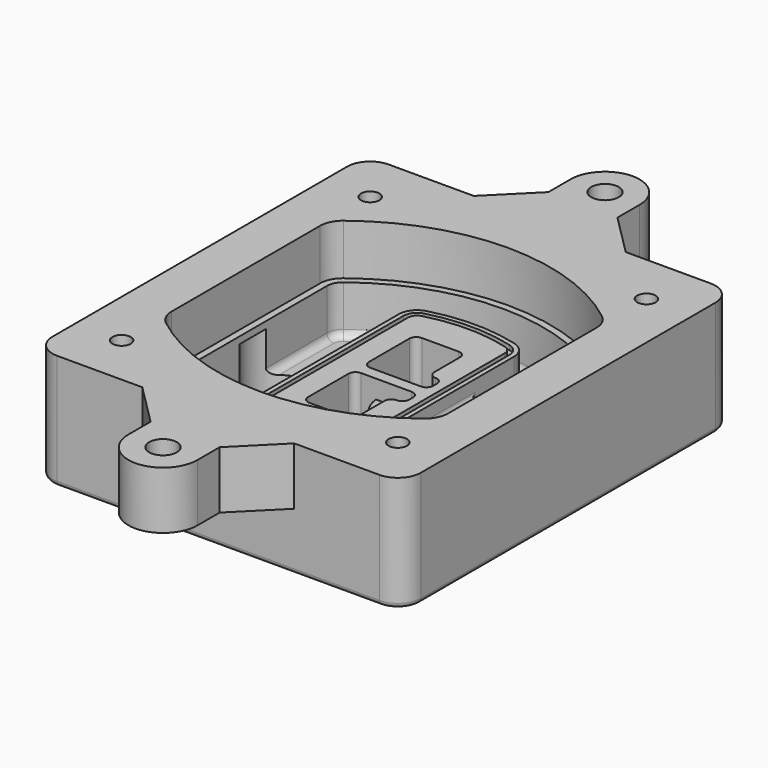
from build123d import *

# Parameters (mm, degrees)
F0_R      = 4
F1_DEPTH  = 25
F2_DEPTH  = 3
F3_DEPTH  = 18
F5_DEPTH  = 21
F6_DEPTH  = 2
F8_DEPTH  = 20
F9_DEPTH  = 16
F10_DEPTH = 25
F7_R      = 6
F7_R_2    = 4
F11_DEPTH = 6
F13_DEPTH = 9
F14_R     = 3
F15_R     = 2
F16_R     = 4
F16_R_2   = 6
F17_DEPTH = 25


with BuildPart() as f1:
    # F0 (on Top) → F1 (new body)
    with BuildSketch(Plane.XY):
        with BuildLine():
            ThreePointArc((-80, -80), (-77.0710678119, -87.0710678119), (-70, -90))
            Line((-70, -90), (70, -90))
            ThreePointArc((70, -90), (77.0710678119, -87.0710678119), (80, -80))
            Line((80, -80), (80, 80))
            ThreePointArc((80, 80), (77.0710678119, 87.0710678119), (70, 90))
            Line((70, 90), (-70, 90))
            ThreePointArc((-70, 90), (-77.0710678119, 87.0710678119), (-80, 80))
            Line((-80, 80), (-80, -80))
        make_face()
        with Locations((-60, -67.5)):
            Circle(F0_R, mode=Mode.SUBTRACT)
        with Locations((60, -67.5)):
            Circle(F0_R, mode=Mode.SUBTRACT)
        with Locations((-60, 67.5)):
            Circle(F0_R, mode=Mode.SUBTRACT)
        with BuildLine():
            ThreePointArc((-64, 40.2934422872), (-62.5820384798, 46.4328484224), (-58.6153846154, 51.3286200352))
            ThreePointArc((-58.6153846154, 51.3286200352), (0, 71.5), (58.6153846154, 51.3286200352))
            ThreePointArc((58.6153846154, 51.3286200352), (62.5820384798, 46.4328484224), (64, 40.2934422872))
            Line((64, 40.2934422872), (64, -40.2934422872))
            ThreePointArc((64, -40.2934422872), (62.5820384798, -46.4328484224), (58.6153846154, -51.3286200352))
            ThreePointArc((58.6153846154, -51.3286200352), (0, -71.5), (-58.6153846154, -51.3286200352))
            ThreePointArc((-58.6153846154, -51.3286200352), (-62.5820384798, -46.4328484224), (-64, -40.2934422872))
            Line((-64, -40.2934422872), (-64, 40.2934422872))
        make_face(mode=Mode.SUBTRACT)
        with Locations((60, 67.5)):
            Circle(F0_R, mode=Mode.SUBTRACT)
        with BuildLine():
            ThreePointArc((58.6153846154, 51.3286200352), (0, 71.5), (-58.6153846154, 51.3286200352))
            ThreePointArc((-58.6153846154, 51.3286200352), (-62.5820384798, 46.4328484224), (-64, 40.2934422872))
            Line((-64, 40.2934422872), (-64, -40.2934422872))
            ThreePointArc((-64, -40.2934422872), (-62.5820384798, -46.4328484224), (-58.6153846154, -51.3286200352))
            ThreePointArc((-58.6153846154, -51.3286200352), (0, -71.5), (58.6153846154, -51.3286200352))
            ThreePointArc((58.6153846154, -51.3286200352), (62.5820384798, -46.4328484224), (64, -40.2934422872))
            Line((64, -40.2934422872), (64, 40.2934422872))
            ThreePointArc((64, 40.2934422872), (62.5820384798, 46.4328484224), (58.6153846154, 51.3286200352))
        make_face()
        with BuildLine():
            Line((-60, -40.2934422872), (-60, 40.2934422872))
            ThreePointArc((-60, 40.2934422872), (-58.9871703427, 44.6787323838), (-56.1538461538, 48.1757121072))
            ThreePointArc((-56.1538461538, 48.1757121072), (0, 67.5), (56.1538461538, 48.1757121072))
            ThreePointArc((56.1538461538, 48.1757121072), (58.9871703427, 44.6787323838), (60, 40.2934422872))
            Line((60, 40.2934422872), (60, -40.2934422872))
            ThreePointArc((60, -40.2934422872), (58.9871703427, -44.6787323838), (56.1538461538, -48.1757121072))
            ThreePointArc((56.1538461538, -48.1757121072), (0, -67.5), (-56.1538461538, -48.1757121072))
            ThreePointArc((-56.1538461538, -48.1757121072), (-58.9871703427, -44.6787323838), (-60, -40.2934422872))
        make_face(mode=Mode.SUBTRACT)
        with BuildLine():
            ThreePointArc((-56.1538461538, 48.1757121072), (-58.9871703427, 44.6787323838), (-60, 40.2934422872))
            Line((-60, 40.2934422872), (-60, -40.2934422872))
            ThreePointArc((-60, -40.2934422872), (-58.9871703427, -44.6787323838), (-56.1538461538, -48.1757121072))
            ThreePointArc((-56.1538461538, -48.1757121072), (0, -67.5), (56.1538461538, -48.1757121072))
            ThreePointArc((56.1538461538, -48.1757121072), (58.9871703427, -44.6787323838), (60, -40.2934422872))
            Line((60, -40.2934422872), (60, 40.2934422872))
            ThreePointArc((60, 40.2934422872), (58.9871703427, 44.6787323838), (56.1538461538, 48.1757121072))
            ThreePointArc((56.1538461538, 48.1757121072), (0, 67.5), (-56.1538461538, 48.1757121072))
        make_face()
        with BuildLine():
            ThreePointArc((54.3076923077, 45.8110311612), (56.2910192399, 43.3631453548), (57, 40.2934422872))
            Line((57, 40.2934422872), (57, -40.2934422872))
            ThreePointArc((57, -40.2934422872), (56.2910192399, -43.3631453548), (54.3076923077, -45.8110311612))
            ThreePointArc((54.3076923077, -45.8110311612), (0, -64.5), (-54.3076923077, -45.8110311612))
            ThreePointArc((-54.3076923077, -45.8110311612), (-56.2910192399, -43.3631453548), (-57, -40.2934422872))
            Line((-57, -40.2934422872), (-57, 40.2934422872))
            ThreePointArc((-57, 40.2934422872), (-56.2910192399, 43.3631453548), (-54.3076923077, 45.8110311612))
            ThreePointArc((-54.3076923077, 45.8110311612), (0, 64.5), (54.3076923077, 45.8110311612))
        make_face(mode=Mode.SUBTRACT)
        with BuildLine():
            Line((57, -40.2934422872), (57, 40.2934422872))
            ThreePointArc((57, 40.2934422872), (56.2910192399, 43.3631453548), (54.3076923077, 45.8110311612))
            ThreePointArc((54.3076923077, 45.8110311612), (0, 64.5), (-54.3076923077, 45.8110311612))
            ThreePointArc((-54.3076923077, 45.8110311612), (-56.2910192399, 43.3631453548), (-57, 40.2934422872))
            Line((-57, 40.2934422872), (-57, -40.2934422872))
            ThreePointArc((-57, -40.2934422872), (-56.2910192399, -43.3631453548), (-54.3076923077, -45.8110311612))
            ThreePointArc((-54.3076923077, -45.8110311612), (0, -64.5), (54.3076923077, -45.8110311612))
            ThreePointArc((54.3076923077, -45.8110311612), (56.2910192399, -43.3631453548), (57, -40.2934422872))
        make_face()
    extrude(amount=-F1_DEPTH)

    # F0 (on Top) → F2 (join)
    with BuildSketch(Plane.XY):
        with BuildLine():
            ThreePointArc((-56.1538461538, 48.1757121072), (-58.9871703427, 44.6787323838), (-60, 40.2934422872))
            Line((-60, 40.2934422872), (-60, -40.2934422872))
            ThreePointArc((-60, -40.2934422872), (-58.9871703427, -44.6787323838), (-56.1538461538, -48.1757121072))
            ThreePointArc((-56.1538461538, -48.1757121072), (0, -67.5), (56.1538461538, -48.1757121072))
            ThreePointArc((56.1538461538, -48.1757121072), (58.9871703427, -44.6787323838), (60, -40.2934422872))
            Line((60, -40.2934422872), (60, 40.2934422872))
            ThreePointArc((60, 40.2934422872), (58.9871703427, 44.6787323838), (56.1538461538, 48.1757121072))
            ThreePointArc((56.1538461538, 48.1757121072), (0, 67.5), (-56.1538461538, 48.1757121072))
        make_face()
        with BuildLine():
            ThreePointArc((54.3076923077, 45.8110311612), (56.2910192399, 43.3631453548), (57, 40.2934422872))
            Line((57, 40.2934422872), (57, -40.2934422872))
            ThreePointArc((57, -40.2934422872), (56.2910192399, -43.3631453548), (54.3076923077, -45.8110311612))
            ThreePointArc((54.3076923077, -45.8110311612), (0, -64.5), (-54.3076923077, -45.8110311612))
            ThreePointArc((-54.3076923077, -45.8110311612), (-56.2910192399, -43.3631453548), (-57, -40.2934422872))
            Line((-57, -40.2934422872), (-57, 40.2934422872))
            ThreePointArc((-57, 40.2934422872), (-56.2910192399, 43.3631453548), (-54.3076923077, 45.8110311612))
            ThreePointArc((-54.3076923077, 45.8110311612), (0, 64.5), (54.3076923077, 45.8110311612))
        make_face(mode=Mode.SUBTRACT)
    extrude(amount=F2_DEPTH)

    # F0 (on Top) → F3 (cut)
    with BuildSketch(Plane.XY):
        with BuildLine():
            Line((57, -40.2934422872), (57, 40.2934422872))
            ThreePointArc((57, 40.2934422872), (56.2910192399, 43.3631453548), (54.3076923077, 45.8110311612))
            ThreePointArc((54.3076923077, 45.8110311612), (0, 64.5), (-54.3076923077, 45.8110311612))
            ThreePointArc((-54.3076923077, 45.8110311612), (-56.2910192399, 43.3631453548), (-57, 40.2934422872))
            Line((-57, 40.2934422872), (-57, -40.2934422872))
            ThreePointArc((-57, -40.2934422872), (-56.2910192399, -43.3631453548), (-54.3076923077, -45.8110311612))
            ThreePointArc((-54.3076923077, -45.8110311612), (0, -64.5), (54.3076923077, -45.8110311612))
            ThreePointArc((54.3076923077, -45.8110311612), (56.2910192399, -43.3631453548), (57, -40.2934422872))
        make_face()
    extrude(amount=-F3_DEPTH, mode=Mode.SUBTRACT)

    # F4 (on face) → F5 (join, through all)
    with BuildSketch(Plane.XY.offset(3)):
        with BuildLine():
            ThreePointArc((-25, -39.2465276821), (-23.3511545998, -44.1109737193), (-19.0842911877, -46.9702398883))
            ThreePointArc((-19.0842911877, -46.9702398883), (0, -49.5), (19.0842911877, -46.9702398883))
            ThreePointArc((19.0842911877, -46.9702398883), (23.3511545998, -44.1109737193), (25, -39.2465276821))
            Line((25, -39.2465276821), (25, 39.2465276821))
            ThreePointArc((25, 39.2465276821), (23.3511545998, 44.1109737193), (19.0842911877, 46.9702398883))
            ThreePointArc((19.0842911877, 46.9702398883), (0, 49.5), (-19.0842911877, 46.9702398883))
            ThreePointArc((-19.0842911877, 46.9702398883), (-23.3511545998, 44.1109737193), (-25, 39.2465276821))
            Line((-25, 39.2465276821), (-25, -39.2465276821))
        make_face()
        with BuildLine():
            ThreePointArc((18.5632183908, 45.0393118368), (21.7633659499, 42.89486221), (23, 39.2465276821))
            Line((23, 39.2465276821), (23, -39.2465276821))
            ThreePointArc((23, -39.2465276821), (21.7633659499, -42.89486221), (18.5632183908, -45.0393118368))
            ThreePointArc((18.5632183908, -45.0393118368), (0, -47.5), (-18.5632183908, -45.0393118368))
            ThreePointArc((-18.5632183908, -45.0393118368), (-21.7633659499, -42.89486221), (-23, -39.2465276821))
            Line((-23, -39.2465276821), (-23, 39.2465276821))
            ThreePointArc((-23, 39.2465276821), (-21.7633659499, 42.89486221), (-18.5632183908, 45.0393118368))
            ThreePointArc((-18.5632183908, 45.0393118368), (0, 47.5), (18.5632183908, 45.0393118368))
        make_face(mode=Mode.SUBTRACT)
        with BuildLine():
            Line((23, -39.2465276821), (23, 39.2465276821))
            ThreePointArc((23, 39.2465276821), (21.7633659499, 42.89486221), (18.5632183908, 45.0393118368))
            ThreePointArc((18.5632183908, 45.0393118368), (0, 47.5), (-18.5632183908, 45.0393118368))
            ThreePointArc((-18.5632183908, 45.0393118368), (-21.7633659499, 42.89486221), (-23, 39.2465276821))
            Line((-23, 39.2465276821), (-23, -39.2465276821))
            ThreePointArc((-23, -39.2465276821), (-21.7633659499, -42.89486221), (-18.5632183908, -45.0393118368))
            ThreePointArc((-18.5632183908, -45.0393118368), (0, -47.5), (18.5632183908, -45.0393118368))
            ThreePointArc((18.5632183908, -45.0393118368), (21.7633659499, -42.89486221), (23, -39.2465276821))
        make_face()
        with BuildLine():
            ThreePointArc((18.0421455939, 43.1083837852), (20.1755772999, 41.6787507007), (21, 39.2465276821))
            Line((21, 39.2465276821), (21, -39.2465276821))
            ThreePointArc((21, -39.2465276821), (20.1755772999, -41.6787507007), (18.0421455939, -43.1083837852))
            ThreePointArc((18.0421455939, -43.1083837852), (0, -45.5), (-18.0421455939, -43.1083837852))
            ThreePointArc((-18.0421455939, -43.1083837852), (-20.1755772999, -41.6787507007), (-21, -39.2465276821))
            Line((-21, -39.2465276821), (-21, 39.2465276821))
            ThreePointArc((-21, 39.2465276821), (-20.1755772999, 41.6787507007), (-18.0421455939, 43.1083837852))
            ThreePointArc((-18.0421455939, 43.1083837852), (0, 45.5), (18.0421455939, 43.1083837852))
        make_face(mode=Mode.SUBTRACT)
        with BuildLine():
            Line((21, -39.2465276821), (21, 39.2465276821))
            ThreePointArc((21, 39.2465276821), (20.1755772999, 41.6787507007), (18.0421455939, 43.1083837852))
            ThreePointArc((18.0421455939, 43.1083837852), (0, 45.5), (-18.0421455939, 43.1083837852))
            ThreePointArc((-18.0421455939, 43.1083837852), (-20.1755772999, 41.6787507007), (-21, 39.2465276821))
            Line((-21, 39.2465276821), (-21, -39.2465276821))
            ThreePointArc((-21, -39.2465276821), (-20.1755772999, -41.6787507007), (-18.0421455939, -43.1083837852))
            ThreePointArc((-18.0421455939, -43.1083837852), (0, -45.5), (18.0421455939, -43.1083837852))
            ThreePointArc((18.0421455939, -43.1083837852), (20.1755772999, -41.6787507007), (21, -39.2465276821))
        make_face()
        with BuildLine():
            Line((-8, -2.5), (14, -2.5))
            ThreePointArc((14, -2.5), (16.1213203436, -3.3786796564), (17, -5.5))
            Line((17, -5.5), (17, -7.5))
            ThreePointArc((17, -7.5), (16.1213203436, -9.6213203436), (14, -10.5))
            ThreePointArc((14, -10.5), (11.8786796564, -11.3786796564), (11, -13.5))
            Line((11, -13.5), (11, -27.5))
            ThreePointArc((11, -27.5), (10.1213203436, -29.6213203436), (8, -30.5))
            Line((8, -30.5), (-8, -30.5))
            ThreePointArc((-8, -30.5), (-10.1213203436, -29.6213203436), (-11, -27.5))
            Line((-11, -27.5), (-11, -5.5))
            ThreePointArc((-11, -5.5), (-10.1213203436, -3.3786796564), (-8, -2.5))
        make_face(mode=Mode.SUBTRACT)
        with BuildLine():
            ThreePointArc((-8, 2.5), (-10.1213203436, 3.3786796564), (-11, 5.5))
            Line((-11, 5.5), (-11, 27.5))
            ThreePointArc((-11, 27.5), (-10.1213203436, 29.6213203436), (-8, 30.5))
            Line((-8, 30.5), (8, 30.5))
            ThreePointArc((8, 30.5), (10.1213203436, 29.6213203436), (11, 27.5))
            Line((11, 27.5), (11, 13.5))
            ThreePointArc((11, 13.5), (11.8786796564, 11.3786796564), (14, 10.5))
            ThreePointArc((14, 10.5), (16.1213203436, 9.6213203436), (17, 7.5))
            Line((17, 7.5), (17, 5.5))
            ThreePointArc((17, 5.5), (16.1213203436, 3.3786796564), (14, 2.5))
            Line((14, 2.5), (-8, 2.5))
        make_face(mode=Mode.SUBTRACT)
    extrude(amount=-F5_DEPTH)

    # F4 (on face) → F6 (cut)
    with BuildSketch(Plane.XY.offset(3)):
        with BuildLine():
            Line((23, -39.2465276821), (23, 39.2465276821))
            ThreePointArc((23, 39.2465276821), (21.7633659499, 42.89486221), (18.5632183908, 45.0393118368))
            ThreePointArc((18.5632183908, 45.0393118368), (0, 47.5), (-18.5632183908, 45.0393118368))
            ThreePointArc((-18.5632183908, 45.0393118368), (-21.7633659499, 42.89486221), (-23, 39.2465276821))
            Line((-23, 39.2465276821), (-23, -39.2465276821))
            ThreePointArc((-23, -39.2465276821), (-21.7633659499, -42.89486221), (-18.5632183908, -45.0393118368))
            ThreePointArc((-18.5632183908, -45.0393118368), (0, -47.5), (18.5632183908, -45.0393118368))
            ThreePointArc((18.5632183908, -45.0393118368), (21.7633659499, -42.89486221), (23, -39.2465276821))
        make_face()
        with BuildLine():
            ThreePointArc((18.0421455939, 43.1083837852), (20.1755772999, 41.6787507007), (21, 39.2465276821))
            Line((21, 39.2465276821), (21, -39.2465276821))
            ThreePointArc((21, -39.2465276821), (20.1755772999, -41.6787507007), (18.0421455939, -43.1083837852))
            ThreePointArc((18.0421455939, -43.1083837852), (0, -45.5), (-18.0421455939, -43.1083837852))
            ThreePointArc((-18.0421455939, -43.1083837852), (-20.1755772999, -41.6787507007), (-21, -39.2465276821))
            Line((-21, -39.2465276821), (-21, 39.2465276821))
            ThreePointArc((-21, 39.2465276821), (-20.1755772999, 41.6787507007), (-18.0421455939, 43.1083837852))
            ThreePointArc((-18.0421455939, 43.1083837852), (0, 45.5), (18.0421455939, 43.1083837852))
        make_face(mode=Mode.SUBTRACT)
    extrude(amount=-F6_DEPTH, mode=Mode.SUBTRACT)

    # F7 (on face) → F8 (join)
    with BuildSketch(Plane(origin=(0, 0, -25), x_dir=(1, 0, 0), z_dir=(0, 0, -1))):
        with BuildLine():
            ThreePointArc((3.28842436, 0), (16.7567035675, 13.4682792075), (30.224982775, 0))
            Line((30.224982775, 0), (35.224982775, 0))
            ThreePointArc((35.224982775, 0), (16.7567035675, 18.4682792075), (-1.71157564, 0))
            Line((-1.71157564, 0), (3.28842436, 0))
        make_face()
        with BuildLine():
            Line((3.28842436, 0), (30.224982775, 0))
            ThreePointArc((30.224982775, 0), (16.7567035675, 13.4682792075), (3.28842436, 0))
        make_face()
        with BuildLine():
            ThreePointArc((3.28842436, 0), (16.7567035675, -13.4682792075), (30.224982775, 0))
            Line((30.224982775, 0), (3.28842436, 0))
        make_face()
        with BuildLine():
            Line((35.224982775, 0), (30.224982775, 0))
            ThreePointArc((30.224982775, 0), (16.7567035675, -13.4682792075), (3.28842436, 0))
            Line((3.28842436, 0), (-1.71157564, 0))
            ThreePointArc((-1.71157564, 0), (16.7567035675, -18.4682792075), (35.224982775, 0))
        make_face()
    extrude(amount=-F8_DEPTH)

    # F7 (on face) → F9 (cut)
    with BuildSketch(Plane(origin=(0, 0, -25), x_dir=(1, 0, 0), z_dir=(0, 0, -1))):
        with BuildLine():
            Line((3.28842436, 0), (30.224982775, 0))
            ThreePointArc((30.224982775, 0), (16.7567035675, 13.4682792075), (3.28842436, 0))
        make_face()
        with BuildLine():
            ThreePointArc((3.28842436, 0), (16.7567035675, -13.4682792075), (30.224982775, 0))
            Line((30.224982775, 0), (3.28842436, 0))
        make_face()
    extrude(amount=-F9_DEPTH, mode=Mode.SUBTRACT)

    # F7 (on face) → F10 (cut)
    with BuildSketch(Plane(origin=(0, 0, -25), x_dir=(1, 0, 0), z_dir=(0, 0, -1))):
        with BuildLine():
            Line((-59.0318229325, 0), (-32.0952645175, 0))
            ThreePointArc((-32.0952645175, 0), (-45.563543725, 13.4682792075), (-59.0318229325, 0))
        make_face()
        with BuildLine():
            ThreePointArc((-59.0318229325, 0), (-45.563543725, -13.4682792075), (-32.0952645175, 0))
            Line((-32.0952645175, 0), (-59.0318229325, 0))
        make_face()
    extrude(amount=-F10_DEPTH, mode=Mode.SUBTRACT)

    # F7 (on face) → F11 (cut)
    with BuildSketch(Plane(origin=(0, 0, -25), x_dir=(1, 0, 0), z_dir=(0, 0, -1))):
        with Locations((60, -67.5)):
            Circle(F7_R)
        with Locations((60, -67.5)):
            Circle(F7_R_2, mode=Mode.SUBTRACT)
        with Locations((60, -67.5)):
            Circle(F7_R)
        with Locations((60, -67.5)):
            Circle(F7_R_2, mode=Mode.SUBTRACT)
        with Locations((-60, -67.5)):
            Circle(F7_R)
        with Locations((-60, -67.5)):
            Circle(F7_R_2, mode=Mode.SUBTRACT)
        with Locations((-60, -67.5)):
            Circle(F7_R)
        with Locations((-60, -67.5)):
            Circle(F7_R_2, mode=Mode.SUBTRACT)
        with Locations((-60, 67.5)):
            Circle(F7_R)
        with Locations((-60, 67.5)):
            Circle(F7_R_2, mode=Mode.SUBTRACT)
        with Locations((-60, 67.5)):
            Circle(F7_R)
        with Locations((-60, 67.5)):
            Circle(F7_R_2, mode=Mode.SUBTRACT)
        with Locations((60, 67.5)):
            Circle(F7_R)
        with Locations((60, 67.5)):
            Circle(F7_R_2, mode=Mode.SUBTRACT)
        with Locations((60, 67.5)):
            Circle(F7_R)
        with Locations((60, 67.5)):
            Circle(F7_R_2, mode=Mode.SUBTRACT)
    extrude(amount=-F11_DEPTH, mode=Mode.SUBTRACT)

    # F12 (on face) → F13 (cut, through all)
    with BuildSketch(Plane(origin=(0, 0, -9), x_dir=(1, 0, 0), z_dir=(0, 0, -1))):
        with BuildLine():
            Line((11, 13.5), (11, 17.5481537753))
            ThreePointArc((11, 17.5481537753), (2.5696536419, 11.8239143813), (-1.5415842455, 2.5))
            Line((-1.5415842455, 2.5), (3.5224848595, 2.5))
            ThreePointArc((3.5224848595, 2.5), (6.1857188154, 8.3455872281), (11.2536447004, 12.2927168648))
            ThreePointArc((11.2536447004, 12.2927168648), (11.0640958889, 12.8831798879), (11, 13.5))
        make_face()
        with BuildLine():
            ThreePointArc((11.2536447004, -12.2927168648), (6.1857188154, -8.3455872281), (3.5224848595, -2.5))
            Line((3.5224848595, -2.5), (-1.5415842455, -2.5))
            ThreePointArc((-1.5415842455, -2.5), (2.5696536419, -11.8239143813), (11, -17.5481537753))
            Line((11, -17.5481537753), (11, -13.5))
            ThreePointArc((11, -13.5), (11.0640958889, -12.8831798879), (11.2536447004, -12.2927168648))
        make_face()
        with BuildLine():
            ThreePointArc((11.2536447004, 12.2927168648), (6.1857188154, 8.3455872281), (3.5224848595, 2.5))
            Line((3.5224848595, 2.5), (14, 2.5))
            ThreePointArc((14, 2.5), (16.1213203436, 3.3786796564), (17, 5.5))
            Line((17, 5.5), (17, 7.5))
            ThreePointArc((17, 7.5), (16.1213203436, 9.6213203436), (14, 10.5))
            ThreePointArc((14, 10.5), (12.3601599782, 10.9878446101), (11.2536447004, 12.2927168648))
        make_face()
        with BuildLine():
            Line((14, -2.5), (3.5224848595, -2.5))
            ThreePointArc((3.5224848595, -2.5), (6.1857188154, -8.3455872281), (11.2536447004, -12.2927168648))
            ThreePointArc((11.2536447004, -12.2927168648), (12.3601599782, -10.9878446101), (14, -10.5))
            ThreePointArc((14, -10.5), (16.1213203436, -9.6213203436), (17, -7.5))
            Line((17, -7.5), (17, -5.5))
            ThreePointArc((17, -5.5), (16.1213203436, -3.3786796564), (14, -2.5))
        make_face()
    extrude(amount=F13_DEPTH, mode=Mode.SUBTRACT)

    # F14
    f14_edges = [f1.edges().sort_by_distance(p)[0] for p in [
        (-57, -23.703476, -18),
        (-57, 23.703476, -18),
        (25, 0, -5),
        (25, 16.526506, -11.5),
        (25, -16.526506, -11.5),
        (25, -27.886517, -18),
        (35.224983, 0, -18),
    ]]
    fillet(f14_edges, radius=F14_R)

    # F15
    f15_edges = [f1.edges().sort_by_distance(p)[0] for p in [
        (0, -90, -25),
    ]]
    fillet(f15_edges, radius=F15_R)

    # F16 (on face) → F17 (join)
    with BuildSketch(Plane.XY):
        with BuildLine():
            Line((33, 90), (-33, 90))
            Line((-33, 90), (-70, 90))
            ThreePointArc((-70, 90), (-77.0710678119, 87.0710678119), (-80, 80))
            Line((-80, 80), (-80, -80))
            ThreePointArc((-80, -80), (-77.0710678119, -87.0710678119), (-70, -90))
            Line((-70, -90), (-33, -90))
            Line((-33, -90), (33, -90))
            Line((33, -90), (70, -90))
            ThreePointArc((70, -90), (77.0710678119, -87.0710678119), (80, -80))
            Line((80, -80), (80, 80))
            ThreePointArc((80, 80), (77.0710678119, 87.0710678119), (70, 90))
            Line((70, 90), (33, 90))
        make_face()
        with Locations((-60, -67.5)):
            Circle(F16_R, mode=Mode.SUBTRACT)
        with Locations((60, -67.5)):
            Circle(F16_R, mode=Mode.SUBTRACT)
        with Locations((-60, 67.5)):
            Circle(F16_R, mode=Mode.SUBTRACT)
        with BuildLine():
            ThreePointArc((-60, 40.2934422872), (-58.9871703427, 44.6787323838), (-56.1538461538, 48.1757121072))
            ThreePointArc((-56.1538461538, 48.1757121072), (0, 67.5), (56.1538461538, 48.1757121072))
            ThreePointArc((56.1538461538, 48.1757121072), (58.9871703427, 44.6787323838), (60, 40.2934422872))
            Line((60, 40.2934422872), (60, -40.2934422872))
            ThreePointArc((60, -40.2934422872), (58.9871703427, -44.6787323838), (56.1538461538, -48.1757121072))
            ThreePointArc((56.1538461538, -48.1757121072), (0, -67.5), (-56.1538461538, -48.1757121072))
            ThreePointArc((-56.1538461538, -48.1757121072), (-58.9871703427, -44.6787323838), (-60, -40.2934422872))
            Line((-60, -40.2934422872), (-60, 40.2934422872))
        make_face(mode=Mode.SUBTRACT)
        with Locations((60, 67.5)):
            Circle(F16_R, mode=Mode.SUBTRACT)
        with BuildLine():
            Line((-15, 108), (-33, 90))
            Line((-33, 90), (33, 90))
            Line((33, 90), (15, 108))
            Line((15, 108), (15, 120))
            ThreePointArc((15, 120), (0, 135), (-15, 120))
            Line((-15, 120), (-15, 108))
        make_face()
        with Locations((0, 120)):
            Circle(F16_R_2, mode=Mode.SUBTRACT)
        with BuildLine():
            Line((33, -90), (-33, -90))
            Line((-33, -90), (-15, -108))
            Line((-15, -108), (-15, -120))
            ThreePointArc((-15, -120), (0, -135), (15, -120))
            Line((15, -120), (15, -108))
            Line((15, -108), (33, -90))
        make_face()
        with Locations((0, -120)):
            Circle(F16_R_2, mode=Mode.SUBTRACT)
    extrude(amount=F17_DEPTH)


solid = f1.part
